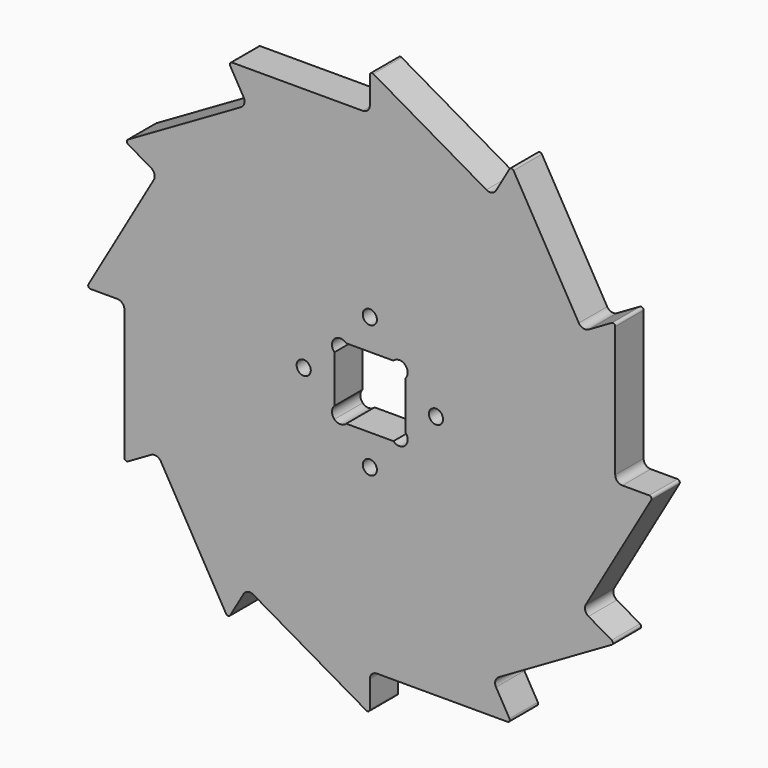
from build123d import *

# Parameters (mm, degrees)
F0_R     = 3.81
F1_DEPTH = 19.05
F2_R     = 3.81
F3_R     = 1.27


with BuildPart() as f1:
    # F0 (on Front) → F1 (new body)
    with BuildSketch(Plane.XZ):
        Polygon((114.3, 65.991136), (76.2, 131.982272), (65.991136, 114.3), (0, 152.4), (0, 131.982272), (-76.2, 131.982272), (-65.991136, 114.3), (-131.982272, 76.2), (-114.3, 65.991136), (-152.4, 0), (-131.982272, 0), (-131.982272, -76.2), (-114.3, -65.991136), (-76.2, -131.982272), (-65.991136, -114.3), (0, -152.4), (0, -131.982272), (76.2, -131.982272), (65.991136, -114.3), (131.982272, -76.2), (114.3, -65.991136), (152.4, 0), (131.982272, 0), (131.982272, 76.2), align=None)
        with Locations((0, -35.56)):
            Circle(F0_R, mode=Mode.SUBTRACT)
        with Locations((-35.56, 0)):
            Circle(F0_R, mode=Mode.SUBTRACT)
        with BuildLine():
            ThreePointArc((-12.7, -19.05), (-15.875, -20.365128), (-19.05, -19.05))
            ThreePointArc((-19.05, -19.05), (-20.365128, -15.875), (-19.05, -12.7))
            Line((-19.05, -12.7), (-19.05, 12.7))
            ThreePointArc((-19.05, 12.7), (-20.365128, 15.875), (-19.05, 19.05))
            ThreePointArc((-19.05, 19.05), (-15.875, 20.365128), (-12.7, 19.05))
            Line((-12.7, 19.05), (12.7, 19.05))
            ThreePointArc((12.7, 19.05), (15.875, 20.365128), (19.05, 19.05))
            ThreePointArc((19.05, 19.05), (20.023337, 17.593298), (20.365128, 15.875))
            ThreePointArc((20.365128, 15.875), (20.023337, 14.156702), (19.05, 12.7))
            Line((19.05, 12.7), (19.05, -12.7))
            ThreePointArc((19.05, -12.7), (20.023337, -14.156702), (20.365128, -15.875))
            ThreePointArc((20.365128, -15.875), (20.023337, -17.593298), (19.05, -19.05))
            ThreePointArc((19.05, -19.05), (15.875, -20.365128), (12.7, -19.05))
            Line((12.7, -19.05), (-12.7, -19.05))
        make_face(mode=Mode.SUBTRACT)
        with Locations((35.56, 0)):
            Circle(F0_R, mode=Mode.SUBTRACT)
        with Locations((0, 35.56)):
            Circle(F0_R, mode=Mode.SUBTRACT)
    extrude(amount=F1_DEPTH)

    # F2
    f2_edges = [f1.edges().sort_by_distance(p)[0] for p in [
        (65.991136, -9.525, 114.3),
        (114.3, -9.525, 65.991136),
        (131.982272, -9.525, 0),
        (114.3, -9.525, -65.991136),
        (65.991136, -9.525, -114.3),
        (0, -9.525, -131.982272),
        (-65.991136, -9.525, -114.3),
        (-114.3, -9.525, -65.991136),
        (-131.982272, -9.525, 0),
        (-114.3, -9.525, 65.991136),
        (-65.991136, -9.525, 114.3),
        (0, -9.525, 131.982272),
    ]]
    fillet(f2_edges, radius=F2_R)

    # F3
    f3_edges = [f1.edges().sort_by_distance(p)[0] for p in [
        (0, -9.525, 152.4),
        (76.2, -9.525, 131.982272),
        (131.982272, -9.525, 76.2),
        (152.4, -9.525, 0),
        (131.982272, -9.525, -76.2),
        (76.2, -9.525, -131.982272),
        (0, -9.525, -152.4),
        (-76.2, -9.525, -131.982272),
        (-131.982272, -9.525, -76.2),
        (-152.4, -9.525, 0),
        (-131.982272, -9.525, 76.2),
        (-76.2, -9.525, 131.982272),
    ]]
    fillet(f3_edges, radius=F3_R)


solid = f1.part
